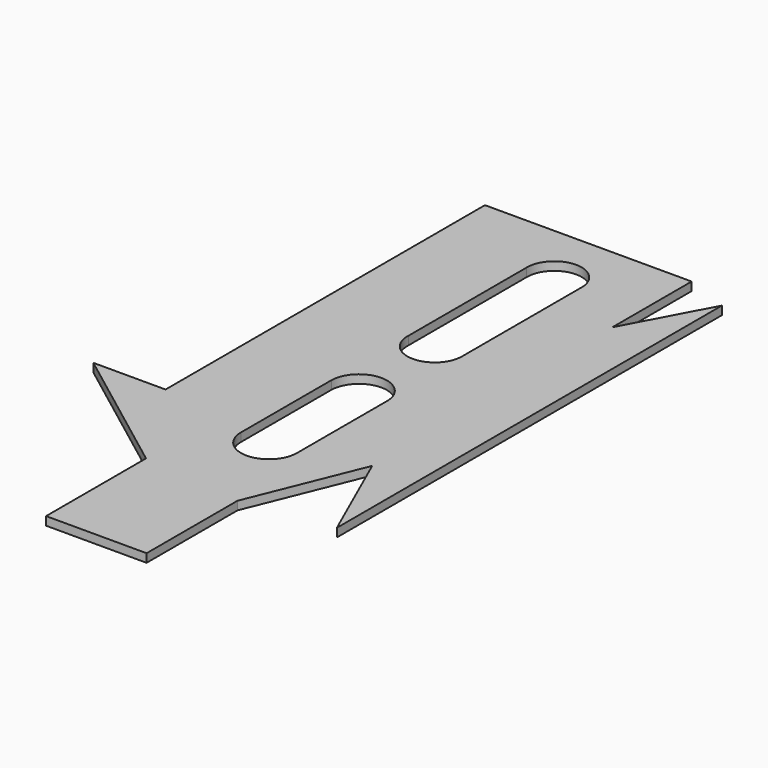
from build123d import *

# Parameters (mm, degrees)
F1_DEPTH = 2


with BuildPart() as f1:
    # F0 (on Top) → F1 (new body)
    with BuildSketch(Plane.XY):
        Polygon((-7.174543, -37.56626), (-7.174543, -67.014092), (16.518127, -67.014092), (16.518127, -40.235858), (27.196512, -13.873593), (27.196512, 56.870706), (27.196512, 80.22967), (-21.523623, 80.22967), (-21.523623, -13.873593), (-38.542297, -13.873593), align=None)
        with BuildLine():
            ThreePointArc((0, 8.150576), (6.432569, 14.558302), (13.181132, 8.484275))
            Line((13.181132, 8.484275), (13.181132, -18.545387))
            ThreePointArc((13.181132, -18.545387), (6.590566, -25.135953), (0, -18.545387))
            Line((0, -18.545387), (0, 8.150576))
        make_face(mode=Mode.SUBTRACT)
        with BuildLine():
            ThreePointArc((0, 65.546893), (6.599696, 72.155338), (12.847431, 65.213196))
            Line((12.847431, 65.213196), (12.847431, 30.508444))
            ThreePointArc((12.847431, 30.508444), (6.252476, 24.082562), (0, 30.842142))
            Line((0, 30.842142), (0, 65.546893))
        make_face(mode=Mode.SUBTRACT)
        Polygon((27.196512, 56.870706), (27.196512, -13.873593), (37.541199, -37.232559), (37.541199, 76.225281), align=None)
    extrude(amount=F1_DEPTH)


solid = f1.part
